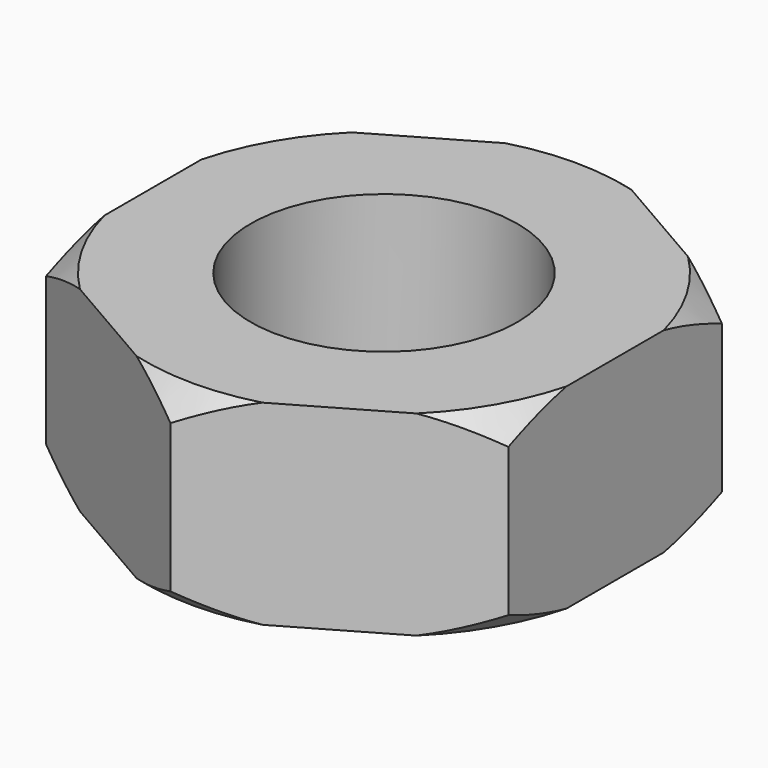
from build123d import *

# Parameters (mm, degrees)
SKETCH_R  = 1.5
PAD_DEPTH = 1.1


with BuildPart() as body001:
    # Sketch002 → Revolution (revolve)
    with BuildSketch(Plane.YZ):
        Polygon((2.1, 1.6), (3.1, 0.75), (3.1, -0.75), (2.1, -1.6), (4.1, -1.6), (4.1, 1.6), align=None)
    revolve(axis=Axis((0, 0, 0), (0, 0, 1)))


with BuildPart() as cut:
    # Sketch → Pad (new body, symmetric)
    with BuildSketch(Plane.XY):
        Polygon((2.6, 1.501111), (0, 3.002221), (-2.6, 1.501111), (-2.6, -1.501111), (0, -3.002221), (2.6, -1.501111), align=None)
        Circle(SKETCH_R, mode=Mode.SUBTRACT)
    extrude(amount=PAD_DEPTH, both=True)

    # Cut: cut Body001
    add(body001.part, mode=Mode.SUBTRACT)


solid = cut.part
